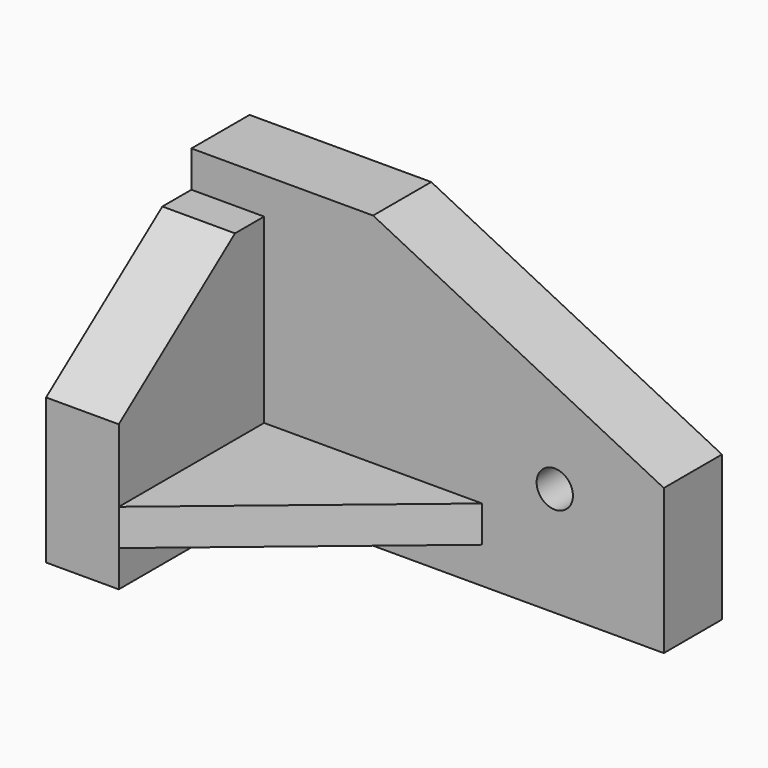
from build123d import *

# Parameters (mm, degrees)
F0_W      = 65
F0_H      = 40
F1_DEPTH  = 35
F2_W      = 55
F2_H      = 40
F3_DEPTH  = 25
F4_W      = 5
F4_H      = 5
F5_DEPTH  = 65.001
F6_R      = 2.5
F7_DEPTH  = 10.001
F9_DEPTH  = 65.001
F11_DEPTH = 35.001
F12_W     = 30
F12_H     = 5
F13_DEPTH = 25
F15_DEPTH = 10.001


with BuildPart() as f1:
    # F0 (on Front) → F1 (new body)
    with BuildSketch(Plane.XZ):
        Rectangle(F0_W, F0_H)
    extrude(amount=F1_DEPTH)

    # F2 (on face) → F3 (cut)
    with BuildSketch(Plane.XZ.offset(35)):
        with Locations((5, 0)):
            Rectangle(F2_W, F2_H)
    extrude(amount=-F3_DEPTH, mode=Mode.SUBTRACT)

    # F4 (on face) → F5 (cut, through all)
    with BuildSketch(Plane(origin=(-32.5, 0, 0), x_dir=(0, -1, 0), z_dir=(-1, 0, 0))):
        with Locations((12.5, 17.5)):
            Rectangle(F4_W, F4_H)
    extrude(amount=-F5_DEPTH, mode=Mode.SUBTRACT)

    # F6 (on face) → F7 (cut, through all)
    with BuildSketch(Plane.XZ.offset(10)):
        with Locations((17.5, -5)):
            Circle(F6_R)
    extrude(amount=-F7_DEPTH, mode=Mode.SUBTRACT)

    # F8 (on face) → F9 (cut, through all)
    with BuildSketch(Plane(origin=(-32.5, 0, 0), x_dir=(0, -1, 0), z_dir=(-1, 0, 0))):
        Polygon((15, 20), (15, 15), (35, 0), (35, 20), align=None)
    extrude(amount=-F9_DEPTH, mode=Mode.SUBTRACT)

    # F10 (on face) → F11 (cut, through all)
    with BuildSketch(Plane(origin=(0, 0, 0), x_dir=(-1, 0, 0), z_dir=(0, 1, 0))):
        Polygon((7.5, 20), (-32.5, 20), (-32.5, 0), align=None)
    extrude(amount=-F11_DEPTH, mode=Mode.SUBTRACT)

    # F12 (on face) → F13 (join)
    with BuildSketch(Plane.XZ.offset(10)):
        with Locations((-7.5, -12.5)):
            Rectangle(F12_W, F12_H)
    extrude(amount=F13_DEPTH)

    # F14 (on face) → F15 (cut, through all)
    with BuildSketch(Plane.XY.offset(-10)):
        Polygon((7.5, -10), (-22.5, -35), (7.5, -35), align=None)
    extrude(amount=-F15_DEPTH, mode=Mode.SUBTRACT)


solid = f1.part
